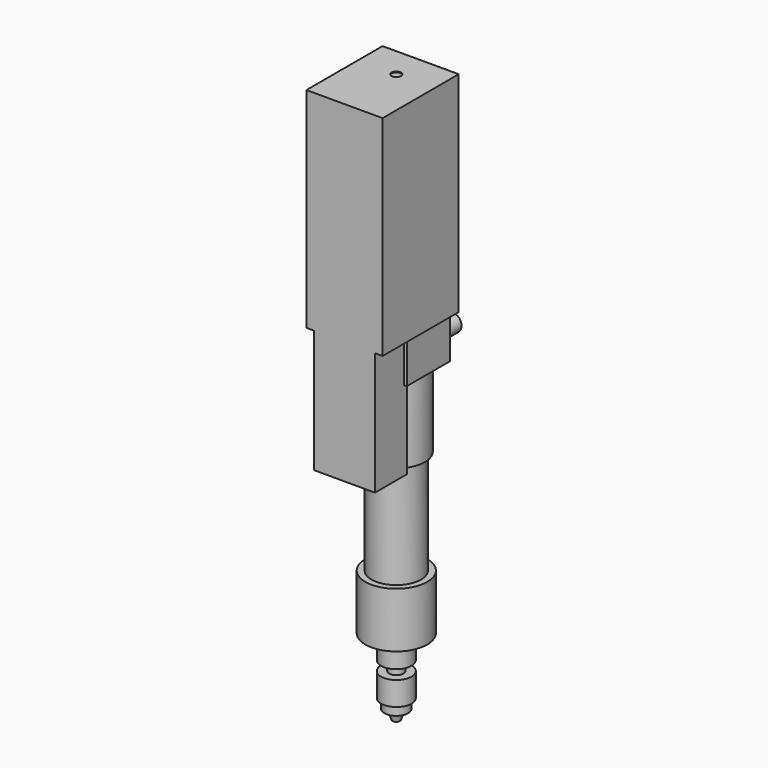
from build123d import *

# Parameters (mm, degrees)
F0_R           = 32.5
F1_DEPTH       = 58
F2_R           = 16
F3_DEPTH       = 25
F4_R           = 26
F5_DEPTH       = 110
F6_R           = 30
F7_DEPTH       = 84
F8_W           = 70
F8_H           = 57
F9_DEPTH       = 85
F10_W          = 64
F10_H          = 42
F11_DEPTH      = 169
F12_W          = 80
F12_H          = 100
F13_DEPTH      = 180
F13_DEPTH_BACK = 40
F14_R          = 9
F15_DEPTH      = 25
F16_R          = 7.5
F17_DEPTH      = 10
F18_R          = 16
F19_DEPTH      = 25
F20_R          = 12.5
F21_DEPTH      = 10
F24_R          = 5
F25_DEPTH      = 1


with BuildPart() as f1:
    # F0 (on Top) → F1 (new body)
    with BuildSketch(Plane.XY):
        Circle(F0_R)
    extrude(amount=-F1_DEPTH)

    # F4 (on Top) → F5 (join)
    with BuildSketch(Plane.XY):
        Circle(F4_R)
    extrude(amount=F5_DEPTH)

    # F6 (on face) → F7 (join)
    with BuildSketch(Plane.XY.offset(110)):
        Circle(F6_R)
    extrude(amount=F7_DEPTH)

    # F8 (on face) → F9 (join)
    with BuildSketch(Plane.XY.offset(194)):
        with Locations((0, -1.5)):
            Rectangle(F8_W, F8_H)
    extrude(amount=F9_DEPTH)

    # F10 (on face) → F11 (join, through all)
    with BuildSketch(Plane(origin=(0, 0, 110), x_dir=(1, 0, 0), z_dir=(0, 0, -1))):
        with Locations((0, 47)):
            Rectangle(F10_W, F10_H)
    extrude(amount=-F11_DEPTH)

    # F12 (on face) → F13 (join, two sides)
    with BuildSketch(Plane.XY.offset(279)) as f13_sk:
        with Locations((0, -18)):
            Rectangle(F12_W, F12_H)
    extrude(amount=F13_DEPTH)
    extrude(f13_sk.sketch, amount=-F13_DEPTH_BACK)

    # F14 (on face) → F15 (join)
    with BuildSketch(Plane(origin=(0, 27, 0), x_dir=(-1, 0, 0), z_dir=(0, 1, 0))):
        with Locations((18, 214)):
            Circle(F14_R)
        with Locations((-18, 214)):
            Circle(F14_R)
    extrude(amount=F15_DEPTH)



with BuildPart() as f3:
    # F2 (on face) → F3 (new body)
    with BuildSketch(Plane(origin=(0, 0, -93), x_dir=(1, 0, 0), z_dir=(0, 0, -1))):
        Circle(F2_R)
    extrude(amount=F3_DEPTH)

    # F16 (on face) → F17 (join)
    with BuildSketch(Plane(origin=(0, 0, -83), x_dir=(1, 0, 0), z_dir=(0, 0, -1))):
        Circle(F16_R)
    extrude(amount=F17_DEPTH)


with BuildPart() as f1_1:
    add(f1.part)

    add(f3.part)  # F19 merges F3
    # F18 (on face) → F19 (join)
    with BuildSketch(Plane(origin=(0, 0, -58), x_dir=(1, 0, 0), z_dir=(0, 0, -1))):
        Circle(F18_R)
    extrude(amount=F19_DEPTH)

    # F20 (on face) → F21 (join)
    with BuildSketch(Plane(origin=(0, 0, -118), x_dir=(1, 0, 0), z_dir=(0, 0, -1))):
        Circle(F20_R)
    extrude(amount=F21_DEPTH)

    # F22 (on Front) → F23 (revolve)
    with BuildSketch(Plane.XZ):
        Polygon((0, -138), (0, -128), (-7, -128), (-4, -138), align=None)
    revolve(axis=Axis((0, 0, -93), (0, 0, 1)))

    # F24 (on face) → F25 (cut)
    with BuildSketch(Plane.XY.offset(459)):
        Circle(F24_R)
    extrude(amount=-F25_DEPTH, mode=Mode.SUBTRACT)


solid = f1_1.part
